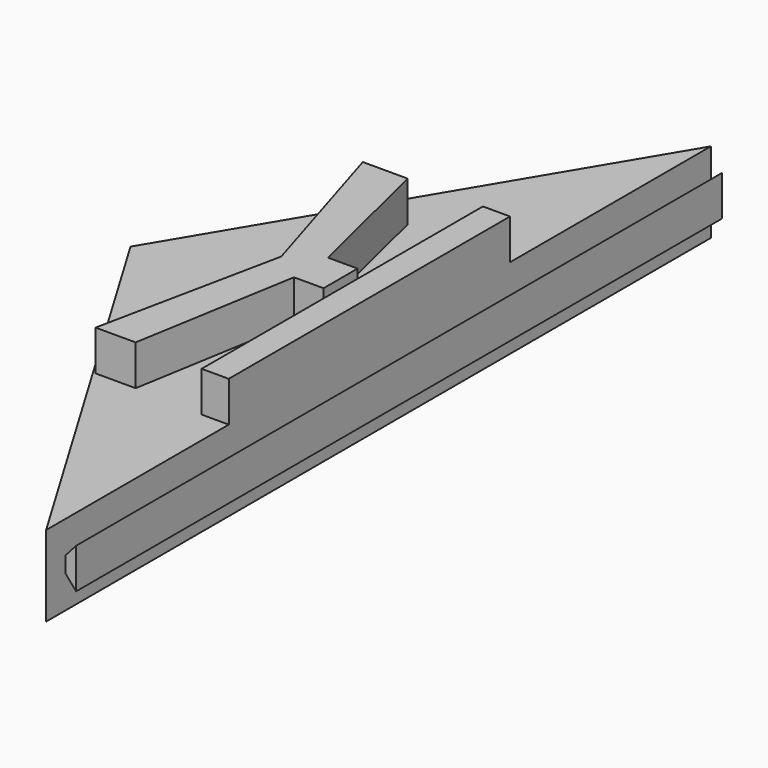
from build123d import *

# Parameters (mm, degrees)
F1_DEPTH = 50.8
F3_W     = 17.0859034664
F3_H     = 221.488
F4_DEPTH = 25.4
F8_DEPTH = 508.508


with BuildPart() as f1:
    # F0 (on Top) → F1 (new body)
    with BuildSketch(Plane.XY):
        Polygon((0, -261.7343), (0, 261.7343), (-156.1992195996, 0), align=None)
    extrude(amount=F1_DEPTH)

    # F3 (on offset) → F4 (join)
    with BuildSketch(Plane.XY.offset(50.8)):
        with Locations((-8.5429517332, -7.1447751335)):
            Rectangle(F3_W, F3_H)
        Polygon((-42.5371713936, -13.3966989815), (-23.862991482, -13.3966989815), (-23.862991482, 13.3966989815), (-42.5371713936, 13.3966989815), (-61.2113513052, 13.3966989815), (-61.2113513052, 0), (-61.2113513052, -13.3966989815), align=None)
        Polygon((-59.9951921275, -116.2100359797), (-42.5371713936, -13.3966989815), (-61.2113513052, -13.3966989815), (-61.2113513052, 0), (-85.2522104979, -116.2100359797), align=None)
        Polygon((-61.2113513052, 13.3966989815), (-42.5371713936, 13.3966989815), (-64.5063391738, 103.6467850208), (-92.7901566029, 103.6467850208), (-61.2113513052, 0), align=None)
    extrude(amount=F4_DEPTH)

    # F7 (on offset) → F8 (join)
    with BuildSketch(Plane.XZ.offset(246.38)):
        Polygon((0, 30.5890981108), (0, 20.4187799245), (6.6587165929, 12.7179827541), (6.6587165929, 38.0452573299), align=None)
    extrude(amount=-F8_DEPTH)


solid = f1.part
